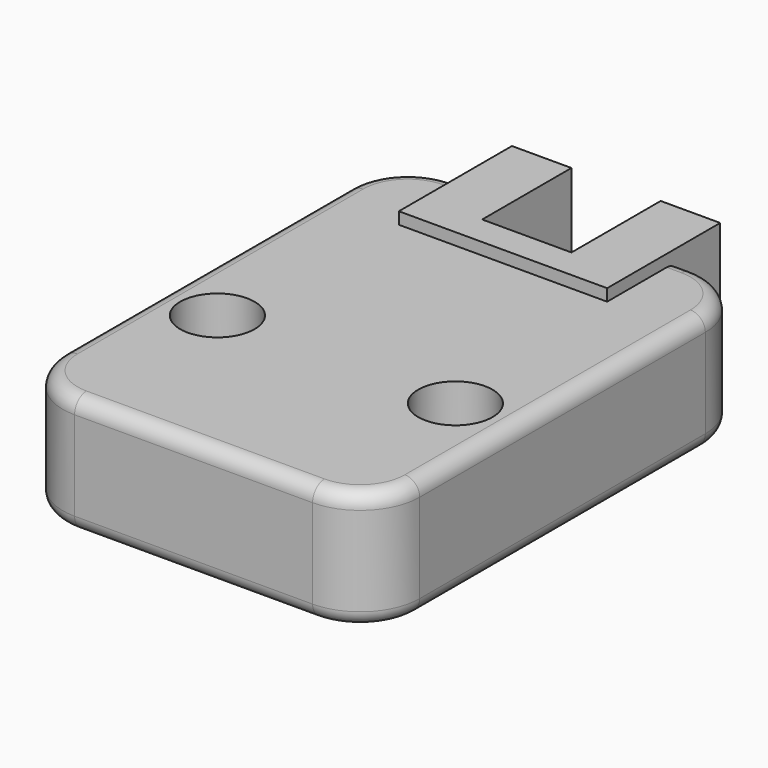
from build123d import *

# Parameters (mm, degrees)
SKETCH_W     = 24
SKETCH_H     = 32
PAD_DEPTH    = 4
FILLET_R     = 4
SKETCH001_R  = 2.5
HOLE_DEPTH   = 25
SKETCH002_W  = 14
SKETCH002_H  = 6
POCKET_DEPTH = 5.2
PAD001_DEPTH = 6
FILLET001_R  = 1
FILLET002_R  = 1


with BuildPart() as part:
    # Sketch → Pad (new body, symmetric)
    with BuildSketch(Plane.XY):
        Rectangle(SKETCH_W, SKETCH_H)
    extrude(amount=PAD_DEPTH, both=True)

    # Fillet
    fillet_edges = [part.edges().sort_by_distance(p)[0] for p in [
        (-12, -16, 0),
        (12, -16, 0),
        (12, 16, 0),
        (-12, 16, 0),
    ]]
    fillet(fillet_edges, radius=FILLET_R)

    # Sketch001 (on Face5 of Fillet) → Hole (cut)
    with BuildSketch(Plane.XY.offset(4)):
        with Locations((-8, -4)):
            Circle(SKETCH001_R)
    hole = extrude(amount=-HOLE_DEPTH, mode=Mode.SUBTRACT)

    # Mirrored: Hole across Sketch001 V_Axis
    add(hole.mirror(Plane(origin=(0, 0, 4), x_dir=(0, 0, 1), z_dir=(1, 0, 0))), mode=Mode.SUBTRACT)

    # Sketch002 (on Face5 of Mirrored) → Pocket (cut)
    with BuildSketch(Plane.XY.offset(4)):
        with Locations((0, 13)):
            Rectangle(SKETCH002_W, SKETCH002_H)
    extrude(amount=-POCKET_DEPTH, mode=Mode.SUBTRACT)

    # Sketch003 (on Face16 of Pocket) → Pad001 (join)
    with BuildSketch(Plane.XY.offset(-1.2)):
        Polygon((7, 10), (-7, 10), (-7, 19.5), (-3, 19.5), (-3, 12), (3, 12), (3, 19.5), (7, 19.5), align=None)
    extrude(amount=PAD001_DEPTH)

    # Fillet001
    fillet001_edges = [part.edges().sort_by_distance(p)[0] for p in [
        (0, -16, -4),
        (10.828427, -14.828427, -4),
        (12, 0, -4),
        (10.828427, 14.828427, -4),
        (-10.828427, -14.828427, -4),
        (-12, 0, -4),
        (-10.828427, 14.828427, -4),
        (0, 16, -4),
    ]]
    fillet(fillet001_edges, radius=FILLET001_R)

    # Fillet002
    fillet002_edges = [part.edges().sort_by_distance(p)[0] for p in [
        (-10.828427, -14.828427, 4),
        (-12, 0, 4),
        (-10.828427, 14.828427, 4),
        (10.828427, 14.828427, 4),
        (12, 0, 4),
        (10.828427, -14.828427, 4),
        (0, -16, 4),
        (-7.5, 16, 4),
        (7.5, 16, 4),
    ]]
    fillet(fillet002_edges, radius=FILLET002_R)


solid = part.part
